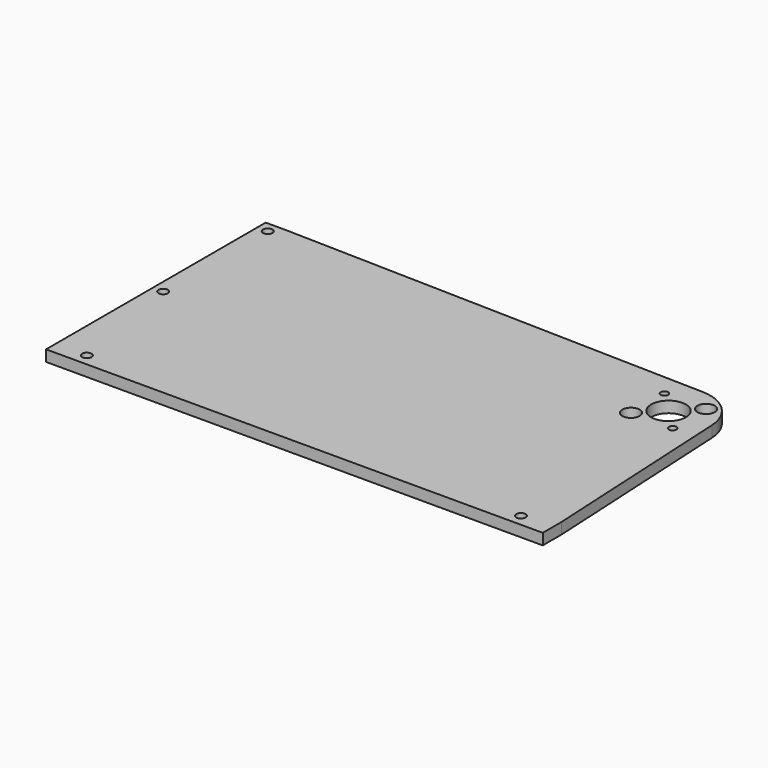
from build123d import *

# Parameters (mm, degrees)
F0_R     = 2.15265
F0_R_2   = 3.96875
F0_R_3   = 1.7272
F0_R_4   = 7.9375
F1_DEPTH = 5.08


with BuildPart() as f1:
    # F0 (on Top) → F1 (new body)
    with BuildSketch(Plane.XY):
        with BuildLine():
            Line((0.467924, 19.044252), (-193.597083, 23.8125))
            Line((-193.597083, 23.8125), (-203.122083, 23.8125))
            Line((-203.122083, 23.8125), (-203.122083, -101.6))
            Line((-203.122083, -101.6), (23.8125, -101.6))
            Line((23.8125, -101.6), (23.8125, -90.805))
            Line((23.8125, -90.805), (19.024136, 0.992343))
            ThreePointArc((19.024136, 0.992343), (13.28356, 13.654653), (0.467924, 19.044252))
        make_face()
        with Locations((-188.834583, -96.2025)):
            Circle(F0_R, mode=Mode.SUBTRACT)
        with Locations((-198.359583, -40.653914)):
            Circle(F0_R, mode=Mode.SUBTRACT)
        with Locations((9.525, -96.2025)):
            Circle(F0_R, mode=Mode.SUBTRACT)
        with Locations((-198.359583, 19.05)):
            Circle(F0_R, mode=Mode.SUBTRACT)
        with Locations((-9.541522, -9.541522)):
            Circle(F0_R_2, mode=Mode.SUBTRACT)
        with Locations((9.541522, -9.541522)):
            Circle(F0_R_3, mode=Mode.SUBTRACT)
        Circle(F0_R_4, mode=Mode.SUBTRACT)
        with Locations((-9.541522, 9.541522)):
            Circle(F0_R_3, mode=Mode.SUBTRACT)
        with Locations((9.541522, 9.541522)):
            Circle(F0_R_2, mode=Mode.SUBTRACT)
    extrude(amount=F1_DEPTH)


solid = f1.part
